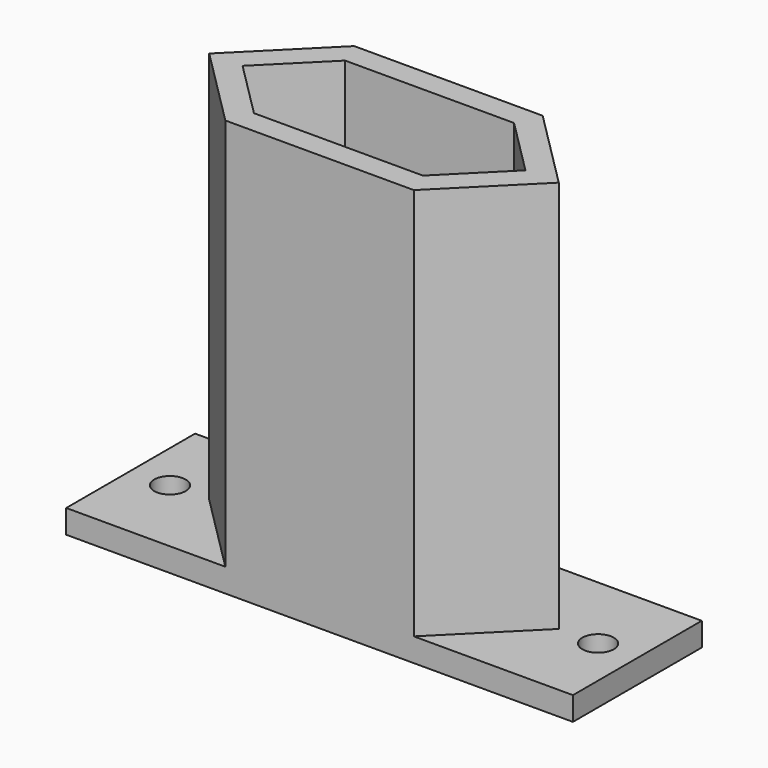
from build123d import *

# Parameters (mm, degrees)
F0_R     = 3
F0_R_2   = 2
F1_DEPTH = 3
F2_DEPTH = 53
F3_DEPTH = 33


with BuildPart() as f1:
    # F0 (on Top) → F1 (new body)
    with BuildSketch(Plane.XY):
        Polygon((-11.9926406871, 10.25), (-22.2426406871, 0), (-11.9926406871, -10.25), (11.9926406871, -10.25), (22.2426406871, 0), (11.9926406871, 10.25), align=None)
        Polygon((-18, 0), (-10.75, 7.25), (10.75, 7.25), (18, 0), (10.75, -7.25), (-10.75, -7.25), align=None, mode=Mode.SUBTRACT)
        Polygon((10.75, 7.25), (-10.75, 7.25), (-18, 0), (-10.75, -7.25), (10.75, -7.25), (18, 0), align=None)
        with Locations((-9.5, 0)):
            Circle(F0_R, mode=Mode.SUBTRACT)
        with Locations((9.5, 0)):
            Circle(F0_R, mode=Mode.SUBTRACT)
        Polygon((32.2426406871, 10.25), (11.9926406871, 10.25), (22.2426406871, 0), (11.9926406871, -10.25), (32.2426406871, -10.25), align=None)
        with Locations((27.2426406871, 0)):
            Circle(F0_R_2, mode=Mode.SUBTRACT)
        Polygon((-11.9926406871, -10.25), (-22.2426406871, 0), (-11.9926406871, 10.25), (-32.2426406871, 10.25), (-32.2426406871, -10.25), align=None)
        with Locations((-27.2426406871, 0)):
            Circle(F0_R_2, mode=Mode.SUBTRACT)
        with Locations((-9.5, 0)):
            Circle(F0_R)
        with Locations((9.5, 0)):
            Circle(F0_R)
    extrude(amount=F1_DEPTH)

    # F0 (on Top) → F2 (join)
    with BuildSketch(Plane.XY):
        Polygon((-11.9926406871, 10.25), (-22.2426406871, 0), (-11.9926406871, -10.25), (11.9926406871, -10.25), (22.2426406871, 0), (11.9926406871, 10.25), align=None)
        Polygon((-18, 0), (-10.75, 7.25), (10.75, 7.25), (18, 0), (10.75, -7.25), (-10.75, -7.25), align=None, mode=Mode.SUBTRACT)
    extrude(amount=F2_DEPTH)

    # F0 (on Top) → F3 (join)
    with BuildSketch(Plane.XY):
        Polygon((10.75, 7.25), (-10.75, 7.25), (-18, 0), (-10.75, -7.25), (10.75, -7.25), (18, 0), align=None)
        with Locations((-9.5, 0)):
            Circle(F0_R, mode=Mode.SUBTRACT)
        with Locations((9.5, 0)):
            Circle(F0_R, mode=Mode.SUBTRACT)
    extrude(amount=F3_DEPTH)


solid = f1.part
